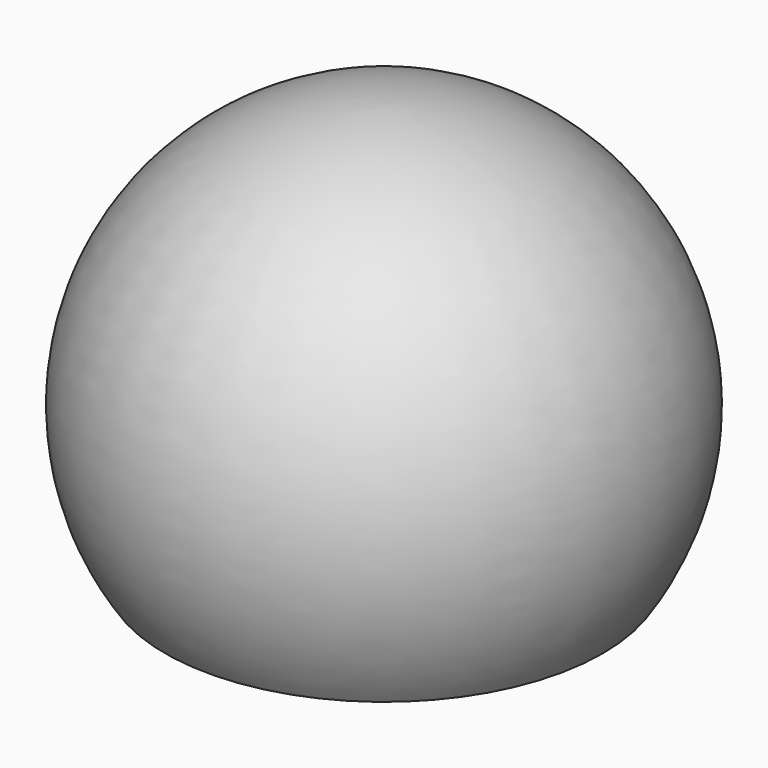
from build123d import *


with BuildPart() as f1:
    # F0 (on Front) → F1 (revolve)
    with BuildSketch(Plane.XZ):
        with BuildLine():
            Line((20.038285, 37.811068), (20.038285, 34.968407))
            ThreePointArc((20.038285, 34.968407), (21.332031, 59.856747), (0, 72.742696))
            Line((0, 72.742696), (0, 37.811068))
            Line((0, 37.811068), (20.038285, 37.811068))
        make_face()
    revolve(axis=Axis((0, 0, 48.556305), (0, 0, 1)))


solid = f1.part
